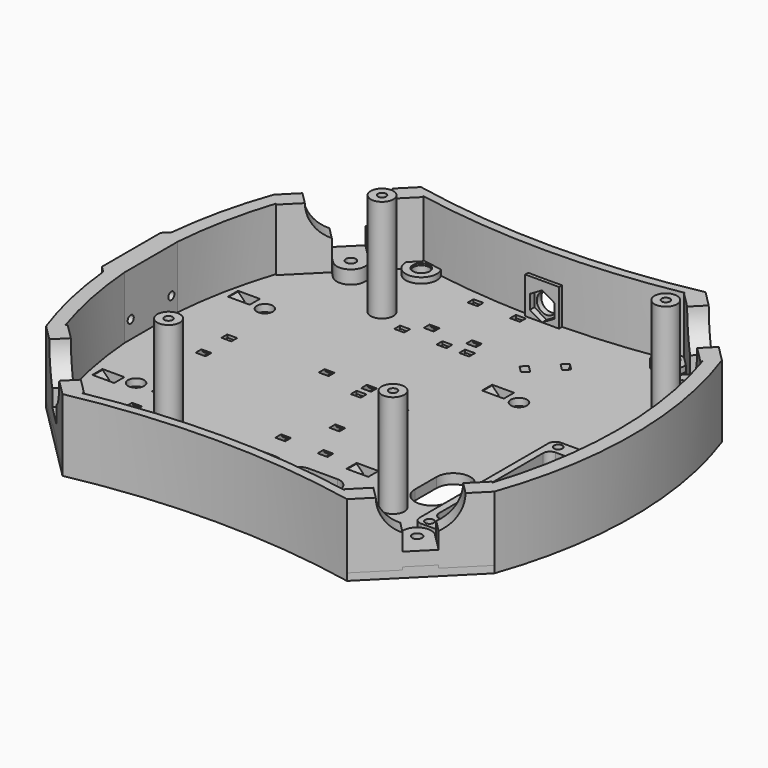
from build123d import *

# Parameters (mm, degrees)
SKETCH318_R                                 = 1.5
EXTRUDE136099_DEPTH                         = 10
EXTRUDE136100_DEPTH                         = 12
SKETCH323_R                                 = 1.35
EXTRUDE136102_DEPTH                         = 10
PRISM002_DEPTH                              = 4
CYLINDER019_R                               = 5.5
CYLINDER019_DEPTH                           = 4
CYLINDER019_ROLL_ANGLE                      = -90
CYLINDER018_R                               = 3.5
CYLINDER018_DEPTH                           = 6
CYLINDER018_ROLL_ANGLE                      = -90
EXTRUDE136103_DEPTH                         = 3.5
EXTRUDE136103_ONTO_SKETCH319_ROLL_ANGLE     = 90
EXTRUDE136104_DEPTH                         = 3.5
EXTRUDE136104_ONTO_SKETCH319_ROLL_ANGLE     = 90
FUSION034004041077001011008_PLACEMENT_ANGLE = 90
EXTRUDE136108_DEPTH                         = 3.5
EXTRUDE136108_ONTO_SKETCH324_ROLL_ANGLE     = 90
EXTRUDE136108_PLACEMENT_ANGLE               = 90
EXTRUDE136109_DEPTH                         = 3.5
EXTRUDE136109_ONTO_SKETCH324_ROLL_ANGLE     = 90
EXTRUDE136109_PLACEMENT_ANGLE               = 90
EXTRUDE136106_DEPTH                         = 3.5
EXTRUDE136106_ONTO_SKETCH320_ROLL_ANGLE     = 90
EXTRUDE136105_DEPTH                         = 3.5
EXTRUDE136105_ONTO_SKETCH320_ROLL_ANGLE     = 90
FUSION034004041077001011009_PLACEMENT_ANGLE = 90
EXTRUDE136111_DEPTH                         = 3.5
EXTRUDE136111_ONTO_SKETCH324_ROLL_ANGLE     = 90
EXTRUDE136111_PLACEMENT_ANGLE               = 45
FUSION034004041077001011011_PLACEMENT_ANGLE = 90
EXTRUDE136119_DEPTH                         = 3.5
EXTRUDE136119_ONTO_SKETCH331_ROLL_ANGLE     = 90
EXTRUDE136119_PLACEMENT_ANGLE               = 90
FUSION034004041077001011007_PLACEMENT_ANGLE = 90
SKETCH327_R                                 = 3
EXTRUDE136114_DEPTH                         = 0.6
SKETCH328_R                                 = 1.8
EXTRUDE136115_DEPTH                         = 12
SKETCH326_R                                 = 2.8
EXTRUDE136113_DEPTH                         = 3.5
SKETCH322_R                                 = 2.85
EXTRUDE136101_DEPTH                         = 2.5
SKETCH329_R                                 = 1.8
EXTRUDE136116_DEPTH                         = 12
EXTRUDE136118_DEPTH                         = 4.5
EXTRUDE136118_ONTO_SKETCH330_ROLL_ANGLE     = 90
EXTRUDE136117_DEPTH                         = 4.5
EXTRUDE136117_ONTO_SKETCH330_ROLL_ANGLE     = 90
SKETCH332_W                                 = 2.5
SKETCH332_H                                 = 21
EXTRUDE136120_DEPTH                         = 3
CHAMFER004_SIZE                             = 1.2
EXTRUDE136123_DEPTH                         = 4
EXTRUDE136097_DEPTH                         = 7
EXTRUDE136121_DEPTH                         = 2
SKETCH315_R                                 = 1.75
EXTRUDE136096_DEPTH                         = 20
ARRAY019005_COUNT                           = 4
ARRAY019005_PLACEMENT_ANGLE                 = 45
SKETCH307_AS_DRAWN_W                        = 41
SKETCH307_AS_DRAWN_H                        = 23
EXTRUDE136088_DEPTH                         = 11
EXTRUDE136088_ONTO_SKETCH307_ROLL_ANGLE     = 90
ARRAY019002_COUNT                           = 4
ARRAY019002_PLACEMENT_ANGLE                 = 45
EXTRUDE136095_DEPTH                         = 23
EXTRUDE136094_DEPTH                         = 23
EXTRUDE136089_DEPTH                         = 6
EXTRUDE136089_ONTO_SKETCH308_ROLL_ANGLE     = 90
ARRAY019003_COUNT                           = 4
ARRAY019003_PLACEMENT_ANGLE                 = 45
SKETCH310_R                                 = 1.45
EXTRUDE136091_DEPTH                         = 10
SKETCH311_R                                 = 4
EXTRUDE136092_DEPTH                         = 38
BOX024_W                                    = 12
BOX024_H                                    = 3
BOX024_DEPTH                                = 13
EXTRUDE136090_DEPTH                         = 4.75
ARRAY019004_COUNT                           = 4
ARRAY019004_PLACEMENT_ANGLE                 = 45
EXTRUDE136093_DEPTH                         = 25.5
SKETCH325_R                                 = 5.5
EXTRUDE136112_DEPTH                         = 2
EXTRUDE136122_DEPTH                         = 3
EXTRUDE136087_DEPTH                         = 3.5


with BuildPart() as extrude136099:
    # Sketch318 → Extrude136099 (new body)
    with BuildSketch(Plane.XY):
        with Locations((7.5, 28.5)):
            Circle(SKETCH318_R)
        with Locations((-7.5, 28.5)):
            Circle(SKETCH318_R)
        with Locations((-7.5, -28.5)):
            Circle(SKETCH318_R)
        with Locations((7.5, -28.5)):
            Circle(SKETCH318_R)
    extrude(amount=EXTRUDE136099_DEPTH)


with BuildPart() as extrude136099_1:
    # Extrude136099 placement: moved
    add(extrude136099.part.moved(Location((60, -17, -24))))


with BuildPart() as extrude136100:
    # Sketch321 → Extrude136100 (new body)
    with BuildSketch(Plane.XY.offset(-17)):
        with BuildLine():
            ThreePointArc((35, -30), (41, -36), (47, -30))
            Line((47, -30), (47, -20.5))
            ThreePointArc((47, -20.5), (41, -14.5), (35, -20.5))
            Line((35, -30), (35, -20.5))
        make_face()
        with BuildLine():
            ThreePointArc((-17.65, -38.65), (-22.15, -43.15), (-17.65, -47.65))
            Line((-17.65, -47.65), (-7.5, -47.65))
            ThreePointArc((-7.5, -47.65), (-3, -43.15), (-7.5, -38.65))
            Line((-17.65, -38.65), (-7.5, -38.65))
        make_face()
        with BuildLine():
            ThreePointArc((4.25, -38.65), (-0.25, -43.15), (4.25, -47.65))
            Line((4.25, -47.65), (14.4, -47.65))
            ThreePointArc((14.4, -47.65), (18.9, -43.15), (14.4, -38.65))
            Line((4.25, -38.65), (14.4, -38.65))
        make_face()
    extrude(amount=-EXTRUDE136100_DEPTH)


with BuildPart() as extrude136102:
    # Sketch323 → Extrude136102 (new body)
    with BuildSketch(Plane.YZ):
        with Locations((-9, 15.75)):
            Circle(SKETCH323_R)
        with Locations((9, 15.75)):
            Circle(SKETCH323_R)
        with Locations((-9, -15.75)):
            Circle(SKETCH323_R)
        with Locations((9, -15.75)):
            Circle(SKETCH323_R)
    extrude(amount=EXTRUDE136102_DEPTH)


with BuildPart() as extrude136102_1:
    # Extrude136102 placement: moved
    add(extrude136102.part.moved(Location((-88, 0, 0))))


with BuildPart() as prism002:
    # Prism002 → Prism002 (new body)
    with BuildSketch(Plane(origin=(0, -4, -1), x_dir=(0, 0, -1), z_dir=(0, 1, 0))):
        Polygon((5, 0), (2.5, 4.330127), (-2.5, 4.330127), (-5, 0), (-2.5, -4.330127), (2.5, -4.330127), align=None)
    extrude(amount=PRISM002_DEPTH)


with BuildPart() as cylinder019:
    # Cylinder019 → Cylinder019 (new body)
    with BuildSketch(Plane.XY):
        Circle(CYLINDER019_R)
    extrude(amount=CYLINDER019_DEPTH)


with BuildPart() as cylinder019_1:
    # Cylinder019 roll: moved
    add(cylinder019.part.rotate(Axis((0, 0, 0), (1, 0, 0)), CYLINDER019_ROLL_ANGLE))


with BuildPart() as cylinder019_2:
    # Cylinder019 placement: moved
    add(cylinder019_1.part.moved(Location((0, 2, -1))))


with BuildPart() as fusion034004041077001011006:
    # Cylinder018 → Cylinder018 (new body)
    with BuildSketch(Plane.XY):
        Circle(CYLINDER018_R)
    extrude(amount=CYLINDER018_DEPTH)


with BuildPart() as fusion034004041077001011006_1:
    # Cylinder018 roll: moved
    add(fusion034004041077001011006.part.rotate(Axis((0, 0, 0), (1, 0, 0)), CYLINDER018_ROLL_ANGLE))


with BuildPart() as fusion034004041077001011006_2:
    # Cylinder018 placement: moved
    add(fusion034004041077001011006_1.part.moved(Location((0, 0, -1))))

    # Fusion034004041077001011006: union Prism002, Cylinder019
    add(prism002.part)
    add(cylinder019_2.part)


with BuildPart() as fusion034004041077001011006_3:
    # Fusion034004041077001011006 placement: moved
    add(fusion034004041077001011006_2.part.moved(Location((0, 72, -16))))


with BuildPart() as extrude136103:
    # Sketch319 as drawn → Extrude136103 (new)
    with BuildSketch(Plane.XY):
        Polygon((-17.133975, 0), (17.133975, 0), (18, 1.5), (18, 3.5), (16, 3.5), (14.845299, 1.5), (-14.845299, 1.5), (-16, 3.5), (-18, 3.5), (-18, 1.5), align=None)
    extrude(amount=-EXTRUDE136103_DEPTH)


with BuildPart() as extrude136103_1:
    # Extrude136103 onto Sketch319 roll: moved
    add(extrude136103.part.rotate(Axis((0, 0, 0), (1, 0, 0)), EXTRUDE136103_ONTO_SKETCH319_ROLL_ANGLE))


with BuildPart() as extrude136103_2:
    # Extrude136103 onto Sketch319 placement: moved
    add(extrude136103_1.part)


with BuildPart() as extrude136104:
    # Sketch319 as drawn → Extrude136104 (new)
    with BuildSketch(Plane.XY):
        Polygon((-17.133975, 0), (17.133975, 0), (18, 1.5), (18, 3.5), (16, 3.5), (14.845299, 1.5), (-14.845299, 1.5), (-16, 3.5), (-18, 3.5), (-18, 1.5), align=None)
    extrude(amount=-EXTRUDE136104_DEPTH)


with BuildPart() as extrude136104_1:
    # Extrude136104 onto Sketch319 roll: moved
    add(extrude136104.part.rotate(Axis((0, 0, 0), (1, 0, 0)), EXTRUDE136104_ONTO_SKETCH319_ROLL_ANGLE))


with BuildPart() as extrude136104_2:
    # Extrude136104 onto Sketch319 placement: moved
    add(extrude136104_1.part)


with BuildPart() as extrude136104_3:
    # Extrude136104 placement: moved
    add(extrude136104_2.part.moved(Location((0, 15, 0))))


with BuildPart() as fusion034004041077001011008:
    # Fusion034004041077001011008 base: copy of Extrude136104
    add(extrude136104_3.part)

    # Fusion034004041077001011008: union Extrude136103
    add(extrude136103_2.part)


with BuildPart() as fusion034004041077001011008_1:
    # Fusion034004041077001011008 placement: moved
    add(fusion034004041077001011008.part.moved(Location((4, -12, -24.5))).rotate(Axis((4, -12, -24.5), (0, 0, 1)), FUSION034004041077001011008_PLACEMENT_ANGLE))


with BuildPart() as extrude136108:
    # Sketch324 as drawn → Extrude136108 (new)
    with BuildSketch(Plane.XY):
        Polygon((-6.133975, 0), (6.133975, 0), (7, 1.5), (7, 3.5), (5, 3.5), (3.845299, 1.5), (-3.845299, 1.5), (-5, 3.5), (-7, 3.5), (-7, 1.5), align=None)
    extrude(amount=-EXTRUDE136108_DEPTH)


with BuildPart() as extrude136108_1:
    # Extrude136108 onto Sketch324 roll: moved
    add(extrude136108.part.rotate(Axis((0, 0, 0), (1, 0, 0)), EXTRUDE136108_ONTO_SKETCH324_ROLL_ANGLE))


with BuildPart() as extrude136108_2:
    # Extrude136108 onto Sketch324 placement: moved
    add(extrude136108_1.part)


with BuildPart() as extrude136108_3:
    # Extrude136108 placement: moved
    add(extrude136108_2.part.moved(Location((-60, 3, -24.5))).rotate(Axis((-60, 3, -24.5), (0, 0, 1)), EXTRUDE136108_PLACEMENT_ANGLE))


with BuildPart() as extrude136109:
    # Sketch324 as drawn → Extrude136109 (new)
    with BuildSketch(Plane.XY):
        Polygon((-6.133975, 0), (6.133975, 0), (7, 1.5), (7, 3.5), (5, 3.5), (3.845299, 1.5), (-3.845299, 1.5), (-5, 3.5), (-7, 3.5), (-7, 1.5), align=None)
    extrude(amount=-EXTRUDE136109_DEPTH)


with BuildPart() as extrude136109_1:
    # Extrude136109 onto Sketch324 roll: moved
    add(extrude136109.part.rotate(Axis((0, 0, 0), (1, 0, 0)), EXTRUDE136109_ONTO_SKETCH324_ROLL_ANGLE))


with BuildPart() as extrude136109_2:
    # Extrude136109 onto Sketch324 placement: moved
    add(extrude136109_1.part)


with BuildPart() as extrude136109_3:
    # Extrude136109 placement: moved
    add(extrude136109_2.part.moved(Location((-55, -34, -24.5))).rotate(Axis((-55, -34, -24.5), (0, 0, 1)), EXTRUDE136109_PLACEMENT_ANGLE))


with BuildPart() as extrude136106:
    # Sketch320 as drawn → Extrude136106 (new)
    with BuildSketch(Plane.XY):
        Polygon((-10.133975, 0), (10.133975, 0), (11, 1.5), (11, 3.5), (9, 3.5), (7.845299, 1.5), (-7.845299, 1.5), (-9, 3.5), (-11, 3.5), (-11, 1.5), align=None)
    extrude(amount=-EXTRUDE136106_DEPTH)


with BuildPart() as extrude136106_1:
    # Extrude136106 onto Sketch320 roll: moved
    add(extrude136106.part.rotate(Axis((0, 0, 0), (1, 0, 0)), EXTRUDE136106_ONTO_SKETCH320_ROLL_ANGLE))


with BuildPart() as extrude136106_2:
    # Extrude136106 onto Sketch320 placement: moved
    add(extrude136106_1.part)


with BuildPart() as extrude136105:
    # Sketch320 as drawn → Extrude136105 (new)
    with BuildSketch(Plane.XY):
        Polygon((-10.133975, 0), (10.133975, 0), (11, 1.5), (11, 3.5), (9, 3.5), (7.845299, 1.5), (-7.845299, 1.5), (-9, 3.5), (-11, 3.5), (-11, 1.5), align=None)
    extrude(amount=-EXTRUDE136105_DEPTH)


with BuildPart() as extrude136105_1:
    # Extrude136105 onto Sketch320 roll: moved
    add(extrude136105.part.rotate(Axis((0, 0, 0), (1, 0, 0)), EXTRUDE136105_ONTO_SKETCH320_ROLL_ANGLE))


with BuildPart() as extrude136105_2:
    # Extrude136105 onto Sketch320 placement: moved
    add(extrude136105_1.part)


with BuildPart() as extrude136105_3:
    # Extrude136105 placement: moved
    add(extrude136105_2.part.moved(Location((0, 15, 0))))


with BuildPart() as fusion034004041077001011009:
    # Fusion034004041077001011009 base: copy of Extrude136105
    add(extrude136105_3.part)

    # Fusion034004041077001011009: union Extrude136106
    add(extrude136106_2.part)


with BuildPart() as fusion034004041077001011009_1:
    # Fusion034004041077001011009 placement: moved
    add(fusion034004041077001011009.part.moved(Location((-5, 58, -24.5))).rotate(Axis((-5, 58, -24.5), (0, 0, 1)), FUSION034004041077001011009_PLACEMENT_ANGLE))


with BuildPart() as extrude136111:
    # Sketch324 as drawn → Extrude136111 (new)
    with BuildSketch(Plane.XY):
        Polygon((-6.133975, 0), (6.133975, 0), (7, 1.5), (7, 3.5), (5, 3.5), (3.845299, 1.5), (-3.845299, 1.5), (-5, 3.5), (-7, 3.5), (-7, 1.5), align=None)
    extrude(amount=-EXTRUDE136111_DEPTH)


with BuildPart() as extrude136111_1:
    # Extrude136111 onto Sketch324 roll: moved
    add(extrude136111.part.rotate(Axis((0, 0, 0), (1, 0, 0)), EXTRUDE136111_ONTO_SKETCH324_ROLL_ANGLE))


with BuildPart() as extrude136111_2:
    # Extrude136111 onto Sketch324 placement: moved
    add(extrude136111_1.part)


with BuildPart() as extrude136111_3:
    # Extrude136111 placement: moved
    add(extrude136111_2.part.moved(Location((19, 48, -24.5))).rotate(Axis((19, 48, -24.5), (0, 0, 1)), EXTRUDE136111_PLACEMENT_ANGLE))


with BuildPart() as fusion034004041077001011011:
    # Fusion034004041077001011011 base: copy of Extrude136105
    add(extrude136105_3.part)

    # Fusion034004041077001011011: union Extrude136106
    add(extrude136106_2.part)


with BuildPart() as fusion034004041077001011011_1:
    # Fusion034004041077001011011 placement: moved
    add(fusion034004041077001011011.part.moved(Location((-4, -60, -24.5))).rotate(Axis((-4, -60, -24.5), (0, 0, 1)), FUSION034004041077001011011_PLACEMENT_ANGLE))


with BuildPart() as extrude136119:
    # Sketch331 as drawn → Extrude136119 (new)
    with BuildSketch(Plane.XY):
        Polygon((-29.133975, 0), (29.133975, 0), (30, 1.5), (30, 3.5), (28, 3.5), (26.845299, 1.5), (-26.845299, 1.5), (-28, 3.5), (-30, 3.5), (-30, 1.5), align=None)
    extrude(amount=-EXTRUDE136119_DEPTH)


with BuildPart() as extrude136119_1:
    # Extrude136119 onto Sketch331 roll: moved
    add(extrude136119.part.rotate(Axis((0, 0, 0), (1, 0, 0)), EXTRUDE136119_ONTO_SKETCH331_ROLL_ANGLE))


with BuildPart() as extrude136119_2:
    # Extrude136119 onto Sketch331 placement: moved
    add(extrude136119_1.part)


with BuildPart() as extrude136119_3:
    # Extrude136119 placement: moved
    add(extrude136119_2.part.moved(Location((-3, 14, -24.5))).rotate(Axis((-3, 14, -24.5), (0, 0, 1)), EXTRUDE136119_PLACEMENT_ANGLE))


with BuildPart() as fusion034004041077001011010:
    # Fusion034004041077001011007 base: copy of Extrude136104
    add(extrude136104_3.part)

    # Fusion034004041077001011007: union Extrude136103
    add(extrude136103_2.part)


with BuildPart() as fusion034004041077001011010_1:
    # Fusion034004041077001011007 placement: moved
    add(fusion034004041077001011010.part.moved(Location((-11, 26, -24.5))).rotate(Axis((-11, 26, -24.5), (0, 0, 1)), FUSION034004041077001011007_PLACEMENT_ANGLE))

    # Fusion034004041077001011010: union Fusion034004041077001011008, Extrude136108, Extrude136109, Fusion034004041077001011009, Extrude136111, Fusion034004041077001011011, Extrude136119
    add(fusion034004041077001011008_1.part)
    add(extrude136108_3.part)
    add(extrude136109_3.part)
    add(fusion034004041077001011009_1.part)
    add(extrude136111_3.part)
    add(fusion034004041077001011011_1.part)
    add(extrude136119_3.part)


with BuildPart() as extrude136114:
    # Sketch327 → Extrude136114 (new body)
    with BuildSketch(Plane.XY.offset(-20)):
        with Locations((-44, 71.5)):
            Circle(SKETCH327_R)
        with Locations((44, 71.5)):
            Circle(SKETCH327_R)
        with Locations((44, -71.5)):
            Circle(SKETCH327_R)
        with Locations((-44, -71.5)):
            Circle(SKETCH327_R)
    extrude(amount=-EXTRUDE136114_DEPTH)


with BuildPart() as extrude136115:
    # Sketch328 → Extrude136115 (new body)
    with BuildSketch(Plane.XY.offset(-17)):
        with Locations((-44, 71.5)):
            Circle(SKETCH328_R)
        with Locations((44, 71.5)):
            Circle(SKETCH328_R)
        with Locations((-44, -71.5)):
            Circle(SKETCH328_R)
        with Locations((44, -71.5)):
            Circle(SKETCH328_R)
    extrude(amount=-EXTRUDE136115_DEPTH)


with BuildPart() as fusion034004041077001011012:
    # Sketch326 → Extrude136113 (new body)
    with BuildSketch(Plane.XY.offset(-20)):
        with Locations((-44, 71.5)):
            Circle(SKETCH326_R)
        with Locations((44, 71.5)):
            Circle(SKETCH326_R)
        with Locations((44, -71.5)):
            Circle(SKETCH326_R)
        with Locations((-44, -71.5)):
            Circle(SKETCH326_R)
    extrude(amount=-EXTRUDE136113_DEPTH)

    # Fusion034004041077001011012: union Extrude136114, Extrude136115
    add(extrude136114.part)
    add(extrude136115.part)


with BuildPart() as extrude136101:
    # Sketch322 → Extrude136101 (new body)
    with BuildSketch(Plane.XY.offset(-22)):
        with Locations((-65, 28.5)):
            Circle(SKETCH322_R)
        with Locations((25, 28.5)):
            Circle(SKETCH322_R)
        with Locations((25, -28.5)):
            Circle(SKETCH322_R)
        with Locations((-65, -28.5)):
            Circle(SKETCH322_R)
    extrude(amount=-EXTRUDE136101_DEPTH)


with BuildPart() as fusion034004041077001011013:
    # Sketch329 → Extrude136116 (new body)
    with BuildSketch(Plane.XY.offset(-17)):
        with Locations((-65, 28.5)):
            Circle(SKETCH329_R)
        with Locations((25, 28.5)):
            Circle(SKETCH329_R)
        with Locations((-65, -28.5)):
            Circle(SKETCH329_R)
        with Locations((25, -28.5)):
            Circle(SKETCH329_R)
    extrude(amount=-EXTRUDE136116_DEPTH)

    # Fusion034004041077001011013: union Extrude136101
    add(extrude136101.part)


with BuildPart() as extrude136118:
    # Sketch330 as drawn → Extrude136118 (new)
    with BuildSketch(Plane.XY):
        Polygon((-77.5, 4), (-69.75, 4), (-69.75, 0), (-75.25, 0), (-75.25, 1.25), (-77.5, 3.5), align=None)
        Polygon((14.75, 0), (14.75, 1.25), (12.5, 3.5), (12.5, 4), (20.25, 4), (20.25, 0), align=None)
    extrude(amount=-EXTRUDE136118_DEPTH)


with BuildPart() as extrude136118_1:
    # Extrude136118 onto Sketch330 roll: moved
    add(extrude136118.part.rotate(Axis((0, 0, 0), (1, 0, 0)), EXTRUDE136118_ONTO_SKETCH330_ROLL_ANGLE))


with BuildPart() as extrude136118_2:
    # Extrude136118 onto Sketch330 placement: moved
    add(extrude136118_1.part.moved(Location((0, -2.25, 0))))


with BuildPart() as extrude136118_3:
    # Extrude136118 placement: moved
    add(extrude136118_2.part.moved(Location((0, -30, 0))))


with BuildPart() as fusion034004041077001011014:
    # Sketch330 as drawn → Extrude136117 (new)
    with BuildSketch(Plane.XY):
        Polygon((-77.5, 4), (-69.75, 4), (-69.75, 0), (-75.25, 0), (-75.25, 1.25), (-77.5, 3.5), align=None)
        Polygon((14.75, 0), (14.75, 1.25), (12.5, 3.5), (12.5, 4), (20.25, 4), (20.25, 0), align=None)
    extrude(amount=-EXTRUDE136117_DEPTH)


with BuildPart() as fusion034004041077001011014_1:
    # Extrude136117 onto Sketch330 roll: moved
    add(fusion034004041077001011014.part.rotate(Axis((0, 0, 0), (1, 0, 0)), EXTRUDE136117_ONTO_SKETCH330_ROLL_ANGLE))


with BuildPart() as fusion034004041077001011014_2:
    # Extrude136117 onto Sketch330 placement: moved
    add(fusion034004041077001011014_1.part.moved(Location((0, -2.25, 0))))


with BuildPart() as fusion034004041077001011014_3:
    # Extrude136117 placement: moved
    add(fusion034004041077001011014_2.part.moved(Location((0, 30, 0))))

    # Fusion034004041077001011014: union Extrude136118
    add(extrude136118_3.part)


with BuildPart() as fusion034004041077001011014_4:
    # Fusion034004041077001011014 placement: moved
    add(fusion034004041077001011014_3.part.moved(Location((0, 0, -25.75))))


with BuildPart() as chamfer004:
    # Sketch332 → Extrude136120 (new body)
    with BuildSketch(Plane.XY):
        Rectangle(SKETCH332_W, SKETCH332_H)
    extrude(amount=EXTRUDE136120_DEPTH)

    # Chamfer004
    chamfer004_edges = [chamfer004.edges().sort_by_distance(p)[0] for p in [
        (1.25, 0, 3),
        (-1.25, 0, 3),
    ]]
    chamfer(chamfer004_edges, length=CHAMFER004_SIZE)


with BuildPart() as chamfer004_1:
    # Chamfer004 placement: moved
    add(chamfer004.part.moved(Location((85, 0, -25.5))))


with BuildPart() as extrude136123:
    # Sketch335 → Extrude136123 (new body)
    with BuildSketch(Plane.XY):
        with BuildLine():
            Line((-6, 25.5), (6, 25.5))
            ThreePointArc((8.5, 23), (7.767767, 24.767767), (6, 25.5))
            Line((8.5, 23), (8.5, -23))
            ThreePointArc((6, -25.5), (7.767767, -24.767767), (8.5, -23))
            Line((6, -25.5), (-6, -25.5))
            ThreePointArc((-8.5, -23), (-7.767767, -24.767767), (-6, -25.5))
            Line((-8.5, -23), (-8.5, 23))
            ThreePointArc((-6, 25.5), (-7.767767, 24.767767), (-8.5, 23))
        make_face()
    extrude(amount=EXTRUDE136123_DEPTH)


with BuildPart() as extrude136123_1:
    # Extrude136123 placement: moved
    add(extrude136123.part.moved(Location((60, -17, -24))))


with BuildPart() as extrude136097:
    # Sketch316 → Extrude136097 (new body)
    with BuildSketch(Plane.XY):
        Polygon((3.25, 0), (1.625, 2.814583), (-1.625, 2.814583), (-3.25, 0), (-1.625, -2.814583), (1.625, -2.814583), align=None)
    extrude(amount=EXTRUDE136097_DEPTH)


with BuildPart() as extrude136121:
    # Sketch333 → Extrude136121 (new body)
    with BuildSketch(Plane.XY):
        Polygon((3.5, 0), (1.75, 3.031089), (-1.75, 3.031089), (-3.5, 0), (-1.75, -3.031089), (1.75, -3.031089), align=None)
    extrude(amount=EXTRUDE136121_DEPTH)


with BuildPart() as fusion034004041077001011005:
    # Sketch315 → Extrude136096 (new body)
    with BuildSketch(Plane.XY):
        Circle(SKETCH315_R)
    extrude(amount=EXTRUDE136096_DEPTH)

    # Fusion034004041077001011004: union Extrude136097, Extrude136121
    add(extrude136097.part)
    add(extrude136121.part)


with BuildPart() as fusion034004041077001011005_1:
    # Fusion034004041077001011004 placement: moved
    add(fusion034004041077001011005.part.moved(Location((0, -83, -26))))

    # Array019005: Fusion034004041077001011005 ×4 about axis
    array019005_axis = Axis((0, 0, 0), (0, 0, 1))


with BuildPart() as fusion034004041077001011005_2:
    add(fusion034004041077001011005_1.part)
    for i in range(1, ARRAY019005_COUNT):
        add(fusion034004041077001011005_1.part.rotate(array019005_axis, i * 360 / ARRAY019005_COUNT))


with BuildPart() as fusion034004041077001011005_3:
    # Array019005 placement: moved
    add(fusion034004041077001011005_2.part.rotate(Axis((0, 0, 0), (0, 0, 1)), ARRAY019005_PLACEMENT_ANGLE))

    # Fusion034004041077001011005: union Extrude136099, Extrude136100, Extrude136102, Fusion034004041077001011006, Fusion034004041077001011010, Fusion034004041077001011012, Fusion034004041077001011013, Fusion034004041077001011014, Chamfer004, Extrude136123
    add(extrude136099_1.part)
    add(extrude136100.part)
    add(extrude136102_1.part)
    add(fusion034004041077001011006_3.part)
    add(fusion034004041077001011010_1.part)
    add(fusion034004041077001011012.part)
    add(fusion034004041077001011013.part)
    add(fusion034004041077001011014_4.part)
    add(chamfer004_1.part)
    add(extrude136123_1.part)


with BuildPart() as array019002:
    # Sketch307 as drawn → Extrude136088 (new)
    with BuildSketch(Plane.XY):
        with Locations((0, -11.5)):
            Rectangle(SKETCH307_AS_DRAWN_W, SKETCH307_AS_DRAWN_H)
    extrude(amount=EXTRUDE136088_DEPTH)


with BuildPart() as array019002_1:
    # Extrude136088 onto Sketch307 roll: moved
    add(array019002.part.rotate(Axis((0, 0, 0), (1, 0, 0)), EXTRUDE136088_ONTO_SKETCH307_ROLL_ANGLE))


with BuildPart() as array019002_2:
    # Extrude136088 onto Sketch307 placement: moved
    add(array019002_1.part)


with BuildPart() as array019002_3:
    # Extrude136088 placement: moved
    add(array019002_2.part.moved(Location((0, -83, 0))))

    # Array019002: Array019002 ×4 about axis
    array019002_axis = Axis((0, 0, 0), (0, 0, 1))


with BuildPart() as array019002_4:
    add(array019002_3.part)
    for i in range(1, ARRAY019002_COUNT):
        add(array019002_3.part.rotate(array019002_axis, i * 360 / ARRAY019002_COUNT))


with BuildPart() as array019002_5:
    # Array019002 placement: moved
    add(array019002_4.part.rotate(Axis((0, 0, 0), (0, 0, 1)), ARRAY019002_PLACEMENT_ANGLE))


with BuildPart() as fusion034004041077001011002:
    # Sketch314 → Extrude136095 (new body)
    with BuildSketch(Plane.XY):
        with BuildLine():
            Line((-75.554319, -46.562941), (-46.562941, -75.554319))
            ThreePointArc((46.562941, -75.554319), (0, -71.255071), (-46.562941, -75.554319))
            Line((46.562941, -75.554319), (75.554319, -46.562941))
            ThreePointArc((75.554319, -46.562941), (82.964373, 0), (75.554319, 46.562941))
            Line((75.554319, 46.562941), (46.562941, 75.554319))
            ThreePointArc((-46.562941, 75.554319), (0, 71.255071), (46.562941, 75.554319))
            Line((-46.562941, 75.554319), (-75.554319, 46.562941))
            ThreePointArc((-75.554319, 46.562941), (-82.964373, 0), (-75.554319, -46.562941))
        make_face()
    extrude(amount=-EXTRUDE136095_DEPTH)

    # Fusion034004041077001011002: union Array019002
    add(array019002_5.part)


with BuildPart() as cut009010006006006005025003:
    # Sketch313 → Extrude136094 (new body)
    with BuildSketch(Plane.XY):
        with BuildLine():
            Line((-79.363824, -50.372446), (-50.372446, -79.363824))
            ThreePointArc((50.372446, -79.363824), (0, -74.339545), (-50.372446, -79.363824))
            Line((50.372446, -79.363824), (79.363824, -50.372446))
            ThreePointArc((79.363824, -50.372446), (88.0747, 0), (79.363824, 50.372446))
            Line((79.363824, 50.372446), (50.372446, 79.363824))
            ThreePointArc((-50.372446, 79.363824), (0, 74.339545), (50.372446, 79.363824))
            Line((-50.372446, 79.363824), (-79.363824, 50.372446))
            ThreePointArc((-79.363824, 50.372446), (-88.0747, 0), (-79.363824, -50.372446))
        make_face()
    extrude(amount=-EXTRUDE136094_DEPTH)

    # Cut009010006006006005025003: cut Fusion034004041077001011002
    add(fusion034004041077001011002.part, mode=Mode.SUBTRACT)


with BuildPart() as array019003:
    # Sketch308 as drawn → Extrude136089 (new)
    with BuildSketch(Plane.XY):
        with BuildLine():
            Line((12.499524, 0), (20.5, 0))
            Line((20.5, 0), (20.5, -23))
            Line((20.5, -23), (5, -23))
            Line((5, -23), (5, -11.347358))
            ThreePointArc((5, -11.347358), (10.428277, -6.783018), (12.499524, 0))
        make_face()
        with BuildLine():
            Line((-20.5, -23), (-20.5, 0))
            Line((-20.5, 0), (-12.499524, 0))
            ThreePointArc((-12.499524, 0), (-10.428277, -6.783018), (-5, -11.347358))
            Line((-5, -23), (-5, -11.347358))
            Line((-20.5, -23), (-5, -23))
        make_face()
    extrude(amount=EXTRUDE136089_DEPTH)


with BuildPart() as array019003_1:
    # Extrude136089 onto Sketch308 roll: moved
    add(array019003.part.rotate(Axis((0, 0, 0), (1, 0, 0)), EXTRUDE136089_ONTO_SKETCH308_ROLL_ANGLE))


with BuildPart() as array019003_2:
    # Extrude136089 onto Sketch308 placement: moved
    add(array019003_1.part)


with BuildPart() as array019003_3:
    # Extrude136089 placement: moved
    add(array019003_2.part.moved(Location((0, -85.75, 0))))

    # Array019003: Array019003 ×4 about axis
    array019003_axis = Axis((0, 0, 0), (0, 0, 1))


with BuildPart() as array019003_4:
    add(array019003_3.part)
    for i in range(1, ARRAY019003_COUNT):
        add(array019003_3.part.rotate(array019003_axis, i * 360 / ARRAY019003_COUNT))


with BuildPart() as array019003_5:
    # Array019003 placement: moved
    add(array019003_4.part.rotate(Axis((0, 0, 0), (0, 0, 1)), ARRAY019003_PLACEMENT_ANGLE))


with BuildPart() as extrude136091:
    # Sketch310 → Extrude136091 (new body)
    with BuildSketch(Plane.XY.offset(14.4)):
        with Locations((62, 47.25)):
            Circle(SKETCH310_R)
        with Locations((-38.5, 47.25)):
            Circle(SKETCH310_R)
        with Locations((-38.5, -47.25)):
            Circle(SKETCH310_R)
        with Locations((37, -42.25)):
            Circle(SKETCH310_R)
    extrude(amount=-EXTRUDE136091_DEPTH)


with BuildPart() as cut009010006006006005025002:
    # Sketch311 → Extrude136092 (new body)
    with BuildSketch(Plane.XY.offset(14.4)):
        with Locations((62, 47.25)):
            Circle(SKETCH311_R)
        with Locations((-38.5, 47.25)):
            Circle(SKETCH311_R)
        with Locations((-38.5, -47.25)):
            Circle(SKETCH311_R)
        with Locations((37, -42.25)):
            Circle(SKETCH311_R)
    extrude(amount=-EXTRUDE136092_DEPTH)

    # Cut009010006006006005025002: cut Extrude136091
    add(extrude136091.part, mode=Mode.SUBTRACT)


with BuildPart() as cube021:
    # Box024 → Box024 (new body)
    with BuildSketch(Plane(origin=(-6, 70, -22), x_dir=(1, 0, 0), z_dir=(0, 0, 1))):
        with Locations((6, 1.5)):
            Rectangle(BOX024_W, BOX024_H)
    extrude(amount=BOX024_DEPTH)


with BuildPart() as array019004:
    # Sketch309 → Extrude136090 (new body)
    with BuildSketch(Plane.XY):
        with BuildLine():
            Line((-5, 0), (-5, 9))
            ThreePointArc((5, 9), (0, 14), (-5, 9))
            Line((5, 0), (5, 9))
            Line((-5, 0), (5, 0))
        make_face()
    extrude(amount=EXTRUDE136090_DEPTH)


with BuildPart() as array019004_1:
    # Extrude136090 placement: moved
    add(array019004.part.moved(Location((0, -91.75, -22))))

    # Array019004: Array019004 ×4 about axis
    array019004_axis = Axis((0, 0, 0), (0, 0, 1))


with BuildPart() as array019004_2:
    add(array019004_1.part)
    for i in range(1, ARRAY019004_COUNT):
        add(array019004_1.part.rotate(array019004_axis, i * 360 / ARRAY019004_COUNT))


with BuildPart() as array019004_3:
    # Array019004 placement: moved
    add(array019004_2.part.rotate(Axis((0, 0, 0), (0, 0, 1)), ARRAY019004_PLACEMENT_ANGLE))


with BuildPart() as extrude136093:
    # Sketch312 → Extrude136093 (new body)
    with BuildSketch(Plane.XY):
        Polygon((0, 13), (0, -13), (-3.5, -16.5), (-7, -13), (-7, 13), (-3.5, 16.5), align=None)
    extrude(amount=-EXTRUDE136093_DEPTH)


with BuildPart() as extrude136093_1:
    # Extrude136093 placement: moved
    add(extrude136093.part.moved(Location((-82.5, 0, 0))))


with BuildPart() as extrude136112:
    # Sketch325 → Extrude136112 (new body)
    with BuildSketch(Plane.XY.offset(-20)):
        with Locations((-44, 71.5)):
            Circle(SKETCH325_R)
        with Locations((44, 71.5)):
            Circle(SKETCH325_R)
        with Locations((44, -71.5)):
            Circle(SKETCH325_R)
        with Locations((-44, -71.5)):
            Circle(SKETCH325_R)
    extrude(amount=-EXTRUDE136112_DEPTH)


with BuildPart() as extrude136122:
    # Sketch334 → Extrude136122 (new body)
    with BuildSketch(Plane.XY):
        with BuildLine():
            Line((-8.5, 31), (8.5, 31))
            ThreePointArc((11, 28.5), (10.267767, 30.267767), (8.5, 31))
            Line((11, 28.5), (11, -28.5))
            ThreePointArc((8.5, -31), (10.267767, -30.267767), (11, -28.5))
            Line((8.5, -31), (-8.5, -31))
            ThreePointArc((-11, -28.5), (-10.267767, -30.267767), (-8.5, -31))
            Line((-11, -28.5), (-11, 28.5))
            ThreePointArc((-8.5, 31), (-10.267767, 30.267767), (-11, 28.5))
        make_face()
    extrude(amount=EXTRUDE136122_DEPTH)


with BuildPart() as extrude136122_1:
    # Extrude136122 placement: moved
    add(extrude136122.part.moved(Location((60, -17, -23))))


with BuildPart() as obj1:
    # Sketch306 → Extrude136087 (new body)
    with BuildSketch(Plane.XY.offset(-22)):
        with BuildLine():
            Line((-79.363824, -50.372446), (-50.372446, -79.363824))
            ThreePointArc((50.372446, -79.363824), (0, -74.339545), (-50.372446, -79.363824))
            Line((50.372446, -79.363824), (79.363824, -50.372446))
            ThreePointArc((79.363824, -50.372446), (88.0747, 0), (79.363824, 50.372446))
            Line((79.363824, 50.372446), (50.372446, 79.363824))
            ThreePointArc((-50.372446, 79.363824), (0, 74.339545), (50.372446, 79.363824))
            Line((-50.372446, 79.363824), (-79.363824, 50.372446))
            ThreePointArc((-79.363824, 50.372446), (-88.0747, 0), (-79.363824, -50.372446))
        make_face()
    extrude(amount=-EXTRUDE136087_DEPTH)

    # Fusion034004041077001011003: union Cut009010006006006005025003, Array019003, Cut009010006006006005025002, Cube021, Array019004, Extrude136093, Extrude136112, Extrude136122
    add(cut009010006006006005025003.part)
    add(array019003_5.part)
    add(cut009010006006006005025002.part)
    add(cube021.part)
    add(array019004_3.part)
    add(extrude136093_1.part)
    add(extrude136112.part)
    add(extrude136122_1.part)

    # Cut009010006006006005025004: cut Fusion034004041077001011005
    add(fusion034004041077001011005_3.part, mode=Mode.SUBTRACT)


solid = obj1.part
